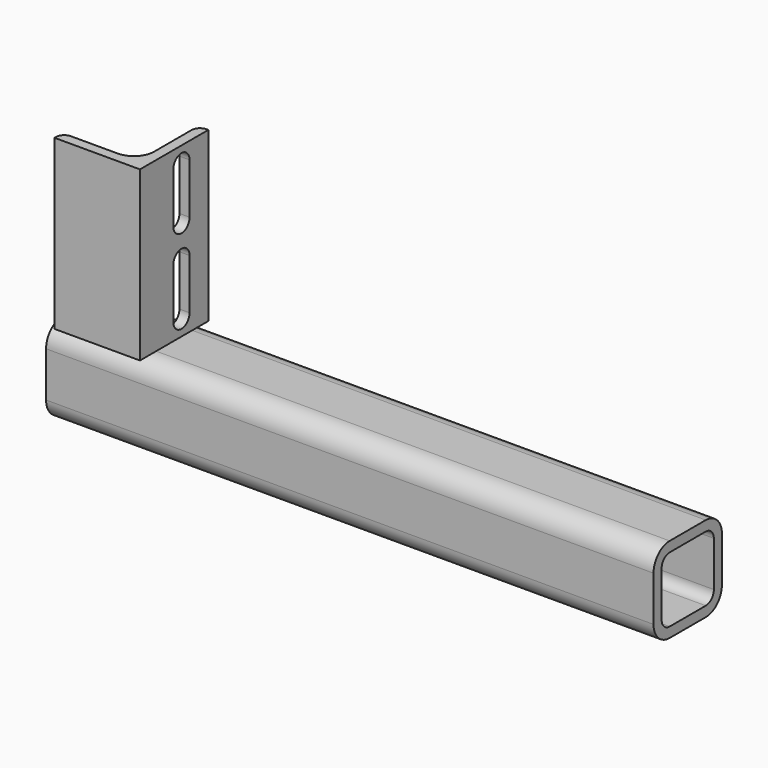
from build123d import *

# Parameters (mm, degrees)
F1_DEPTH = 356
F3_DEPTH = 100
F5_DEPTH = 50.801
F7_DEPTH = 5


with BuildPart() as f1:
    # F0 (on Right) → F1 (new body)
    with BuildSketch(Plane.YZ):
        with BuildLine():
            Line((13.4, 25.4), (-13.4, 25.4))
            ThreePointArc((-13.4, 25.4), (-21.885281, 21.885281), (-25.4, 13.4))
            Line((-25.4, 13.4), (-25.4, -13.4))
            ThreePointArc((-25.4, -13.4), (-21.885281, -21.885281), (-13.4, -25.4))
            Line((-13.4, -25.4), (13.4, -25.4))
            ThreePointArc((13.4, -25.4), (21.885281, -21.885281), (25.4, -13.4))
            Line((25.4, -13.4), (25.4, 13.4))
            ThreePointArc((25.4, 13.4), (21.885281, 21.885281), (13.4, 25.4))
        make_face()
        with BuildLine():
            ThreePointArc((-19.4, 13.4), (-17.642641, 17.642641), (-13.4, 19.4))
            Line((-13.4, 19.4), (13.4, 19.4))
            ThreePointArc((13.4, 19.4), (17.642641, 17.642641), (19.4, 13.4))
            Line((19.4, 13.4), (19.4, -13.4))
            ThreePointArc((19.4, -13.4), (17.642641, -17.642641), (13.4, -19.4))
            Line((13.4, -19.4), (-13.4, -19.4))
            ThreePointArc((-13.4, -19.4), (-17.642641, -17.642641), (-19.4, -13.4))
            Line((-19.4, -13.4), (-19.4, 13.4))
        make_face(mode=Mode.SUBTRACT)
    extrude(amount=-F1_DEPTH)

    # F6 (on face) → F7 (join)
    with BuildSketch(Plane(origin=(-356, 0, 0), x_dir=(0, -1, 0), z_dir=(-1, 0, 0))):
        with BuildLine():
            ThreePointArc((-13.4, 25.4), (-21.885281, 21.885281), (-25.4, 13.4))
            Line((-25.4, 13.4), (-25.4, -13.4))
            ThreePointArc((-25.4, -13.4), (-21.885281, -21.885281), (-13.4, -25.4))
            Line((-13.4, -25.4), (13.4, -25.4))
            ThreePointArc((13.4, -25.4), (21.885281, -21.885281), (25.4, -13.4))
            Line((25.4, -13.4), (25.4, 13.4))
            ThreePointArc((25.4, 13.4), (21.885281, 21.885281), (13.4, 25.4))
            Line((13.4, 25.4), (-13.4, 25.4))
        make_face()
    extrude(amount=F7_DEPTH)


with BuildPart() as f3:
    # F2 (on face) → F3 (new body)
    with BuildSketch(Plane.XY.offset(25.4)):
        with BuildLine():
            Line((-356, -25.4), (-305.2, -25.4))
            Line((-305.2, -25.4), (-305.2, -13.4))
            Line((-305.2, -13.4), (-312.807695, -13.4))
            ThreePointArc((-312.807695, -13.4), (-317.2, -17.792305), (-323.2, -19.4))
            Line((-323.2, -19.4), (-351, -19.4))
            ThreePointArc((-351, -19.4), (-354.535534, -20.864466), (-356, -24.4))
            Line((-356, -24.4), (-356, -25.4))
        make_face()
        with BuildLine():
            Line((-312.807695, -13.4), (-305.2, -13.4))
            Line((-305.2, -13.4), (-305.2, 13.4))
            Line((-305.2, 13.4), (-311.2, 13.4))
            Line((-311.2, 13.4), (-311.2, -7.4))
            ThreePointArc((-311.2, -7.4), (-311.60889, -10.505829), (-312.807695, -13.4))
        make_face()
        with BuildLine():
            Line((-311.2, 13.4), (-305.2, 13.4))
            Line((-305.2, 13.4), (-305.2, 25.4))
            Line((-305.2, 25.4), (-306.2, 25.4))
            ThreePointArc((-306.2, 25.4), (-309.735534, 23.935534), (-311.2, 20.4))
            Line((-311.2, 20.4), (-311.2, 13.4))
        make_face()
    extrude(amount=F3_DEPTH)

    # F4 (on face) → F5 (cut, through all)
    with BuildSketch(Plane.YZ.offset(-305.2)):
        with BuildLine():
            ThreePointArc((11.4, 115.4), (5.4, 121.4), (-0.6, 115.4))
            Line((-0.6, 115.4), (-0.6, 85.4))
            ThreePointArc((-0.6, 85.4), (5.4, 79.4), (11.4, 85.4))
            Line((11.4, 85.4), (11.4, 115.4))
        make_face()
        with BuildLine():
            Line((-0.6, 65.4), (-0.6, 35.4))
            ThreePointArc((-0.6, 35.4), (5.4, 29.4), (11.4, 35.4))
            Line((11.4, 35.4), (11.4, 65.4))
            ThreePointArc((11.4, 65.4), (5.4, 71.4), (-0.6, 65.4))
        make_face()
    extrude(amount=-F5_DEPTH, mode=Mode.SUBTRACT)


solid = Compound([f1.part, f3.part])
